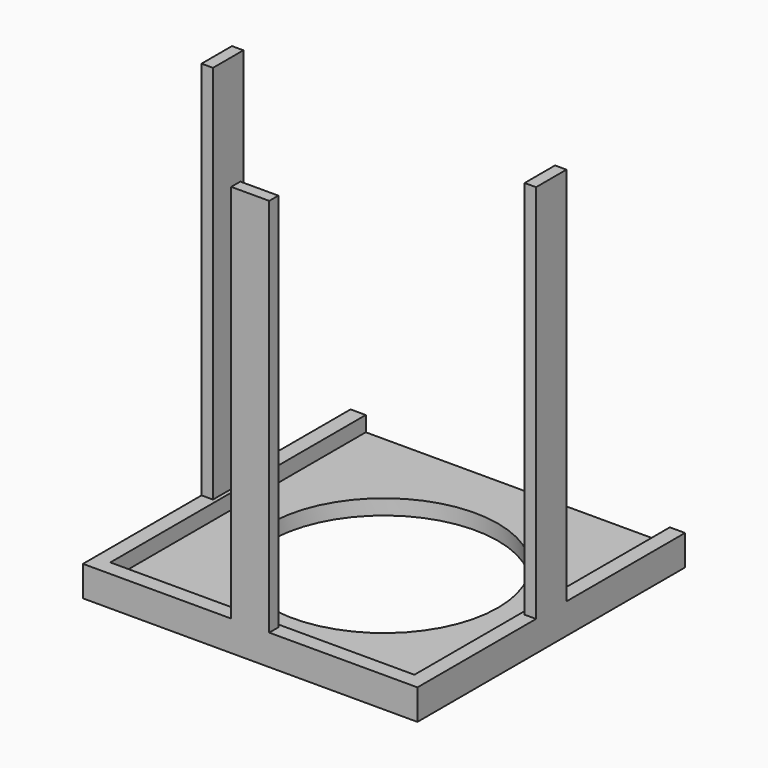
from build123d import *

# Parameters (mm, degrees)
F0_W     = 40
F0_H     = 42
F0_R     = 15
F1_DEPTH = 2
F2_DEPTH = 2
F3_W     = 1.5
F3_H     = 5
F3_W_2   = 5
F3_H_2   = 1.5
F4_DEPTH = 50


with BuildPart() as f1:
    # F0 (on Top) → F1 (new body)
    with BuildSketch(Plane.XY):
        with Locations((0, 1)):
            Rectangle(F0_W, F0_H)
        Circle(F0_R, mode=Mode.SUBTRACT)
        Polygon((-20, 22), (-22, 22), (-22, -22), (22, -22), (22, 22), (20, 22), (20, -20), (-20, -20), align=None)
    extrude(amount=-F1_DEPTH)

    # F0 (on Top) → F2 (join)
    with BuildSketch(Plane.XY):
        Polygon((-20, 22), (-22, 22), (-22, -22), (22, -22), (22, 22), (20, 22), (20, -20), (-20, -20), align=None)
    extrude(amount=F2_DEPTH)

    # F3 (on face) → F4 (join)
    with BuildSketch(Plane.XY.offset(2)):
        with Locations((-21.25, 0)):
            Rectangle(F3_W, F3_H)
        with Locations((0, -21.25)):
            Rectangle(F3_W_2, F3_H_2)
        with Locations((21.25, 0)):
            Rectangle(F3_W, F3_H)
    extrude(amount=F4_DEPTH)


solid = f1.part
